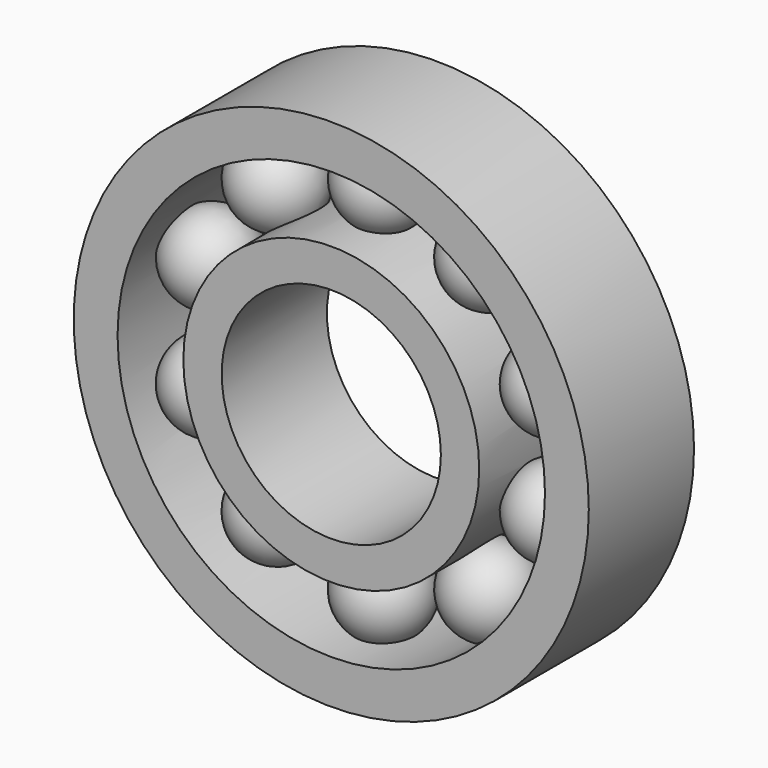
from build123d import *

# Parameters (mm, degrees)
F0_R     = 23.5
F0_R_2   = 19.5
F2_DEPTH = 6
F1_R     = 13.5
F1_R_2   = 10
F3_DEPTH = 6
F7_COUNT = 10


with BuildPart() as f2:
    # F0 (on Front) → F2 (new body, symmetric)
    with BuildSketch(Plane.XZ):
        Circle(F0_R)
        Circle(F0_R_2, mode=Mode.SUBTRACT)
    extrude(amount=F2_DEPTH, both=True)



with BuildPart() as f3:
    # F1 (on Front) → F3 (new body, symmetric)
    with BuildSketch(Plane.XZ):
        Circle(F1_R)
        Circle(F1_R_2, mode=Mode.SUBTRACT)
    extrude(amount=F3_DEPTH, both=True)


with BuildPart() as f2_1:
    add(f2.part)

    add(f3.part)  # F5 merges F3
    # F4 (on Front) → F5 (revolve)
    with BuildSketch(Plane.XZ):
        with BuildLine():
            Line((0, 20.5), (0, 12.5))
            ThreePointArc((0, 12.5), (4, 16.5), (0, 20.5))
        make_face()
    revolve(axis=Axis((0, 0, 16.5), (0, 0, -1)))

    # F7: F2 ×10 about axis
    f7_axis = Axis((0, 14.9062508717, 0), (0, 1, 0))


with BuildPart() as f2_2:
    add(f2_1.part)
    for i in range(1, F7_COUNT):
        add(f2_1.part.rotate(f7_axis, i * 360 / F7_COUNT))


solid = f2_2.part
